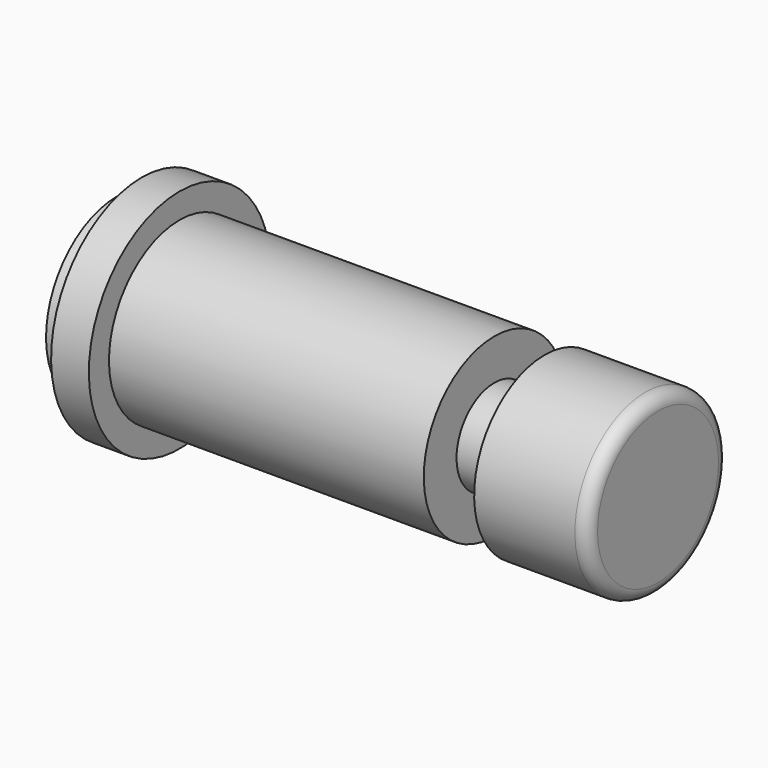
from build123d import *

# Parameters (mm, degrees)
F2_R = 1


with BuildPart() as f1:
    # F0 (on Front) → F1 (revolve)
    with BuildSketch(Plane.XZ):
        Polygon((0, 7), (0, 0), (43, 0), (43, 7), (34, 7), (34, 3.75), (30, 3.75), (30, 7), (5, 7), (5, 9), (2, 9), (2, 7), align=None)
    revolve(axis=Axis((21.5, 0, 0), (1, 0, 0)))

    # F2
    f2_edges = [f1.edges().sort_by_distance(p)[0] for p in [
        (43, 0, -7),
    ]]
    fillet(f2_edges, radius=F2_R)


solid = f1.part
